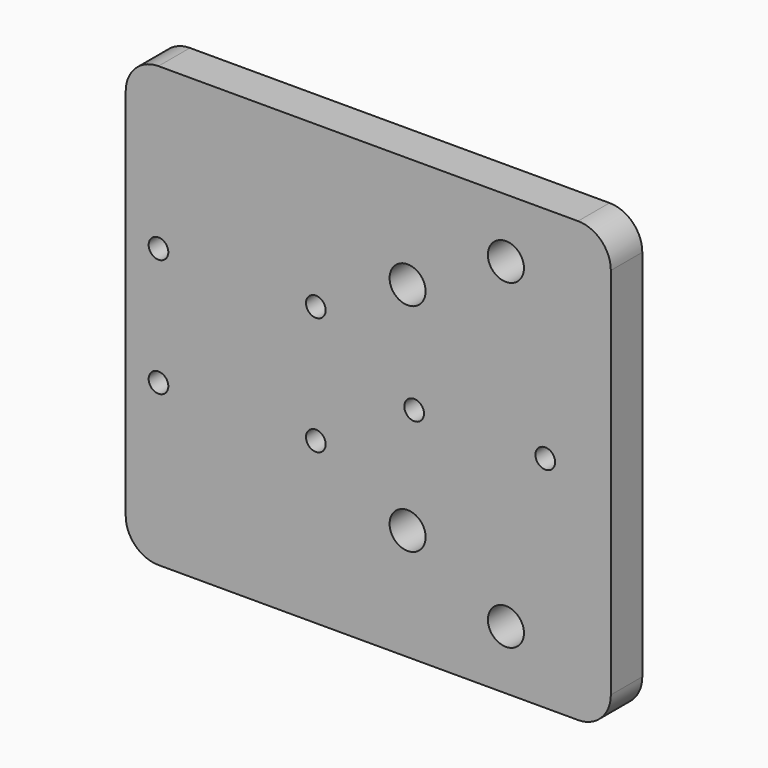
from build123d import *

# Parameters (mm, degrees)
F0_W     = 74
F0_H     = 67
F0_R     = 1.5
F0_R_2   = 2.75
F1_DEPTH = 6
F2_R     = 5


with BuildPart() as f1:
    # F0 (on Front) → F1 (new body)
    with BuildSketch(Plane.XZ):
        with Locations((20, 0)):
            Rectangle(F0_W, F0_H)
        with Locations((-12, -9)):
            Circle(F0_R, mode=Mode.SUBTRACT)
        with Locations((12, -9)):
            Circle(F0_R, mode=Mode.SUBTRACT)
        with Locations((41, -24.5)):
            Circle(F0_R_2, mode=Mode.SUBTRACT)
        with Locations((26, -16.5)):
            Circle(F0_R_2, mode=Mode.SUBTRACT)
        with Locations((-12, 9)):
            Circle(F0_R, mode=Mode.SUBTRACT)
        with Locations((12, 9)):
            Circle(F0_R, mode=Mode.SUBTRACT)
        with Locations((27, 0)):
            Circle(F0_R, mode=Mode.SUBTRACT)
        with Locations((26, 16.5)):
            Circle(F0_R_2, mode=Mode.SUBTRACT)
        with Locations((47, 0)):
            Circle(F0_R, mode=Mode.SUBTRACT)
        with Locations((41, 24.5)):
            Circle(F0_R_2, mode=Mode.SUBTRACT)
    extrude(amount=F1_DEPTH)

    # F2
    f2_edges = [f1.edges().sort_by_distance(p)[0] for p in [
        (-17, -3, 33.5),
        (57, -3, 33.5),
        (57, -3, -33.5),
        (-17, -3, -33.5),
    ]]
    fillet(f2_edges, radius=F2_R)


solid = f1.part
